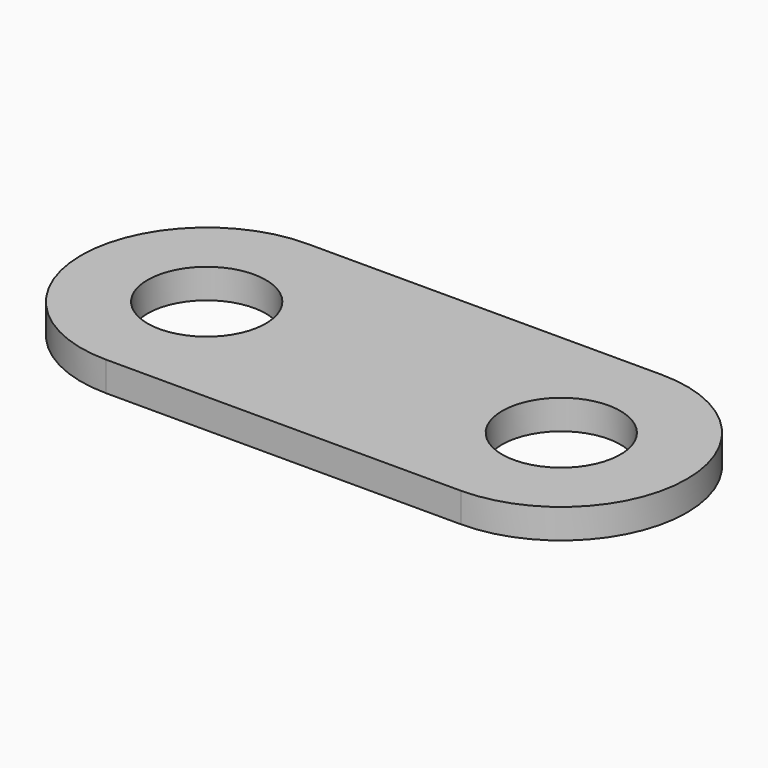
from build123d import *

# Parameters (mm, degrees)
F1_DEPTH = 1
F2_D     = 4
F2_DEPTH = 20


with BuildPart() as f1:
    # F0 (on Top) → F1 (new body)
    with BuildSketch(Plane.XY):
        with BuildLine():
            ThreePointArc((-6, 4.25), (-10.25, 0), (-6, -4.25))
            Line((-6, -4.25), (6, -4.25))
            ThreePointArc((6, -4.25), (10.25, 0), (6, 4.25))
            Line((6, 4.25), (-6, 4.25))
        make_face()
    extrude(amount=F1_DEPTH)

    # F2
    with Locations(Plane(origin=(0, 0, 0), x_dir=(1, 0, 0), z_dir=(0, 0, -1))):
        with Locations((-6, 0), (6, 0)):
            Hole(F2_D / 2, depth=F2_DEPTH)


solid = f1.part
